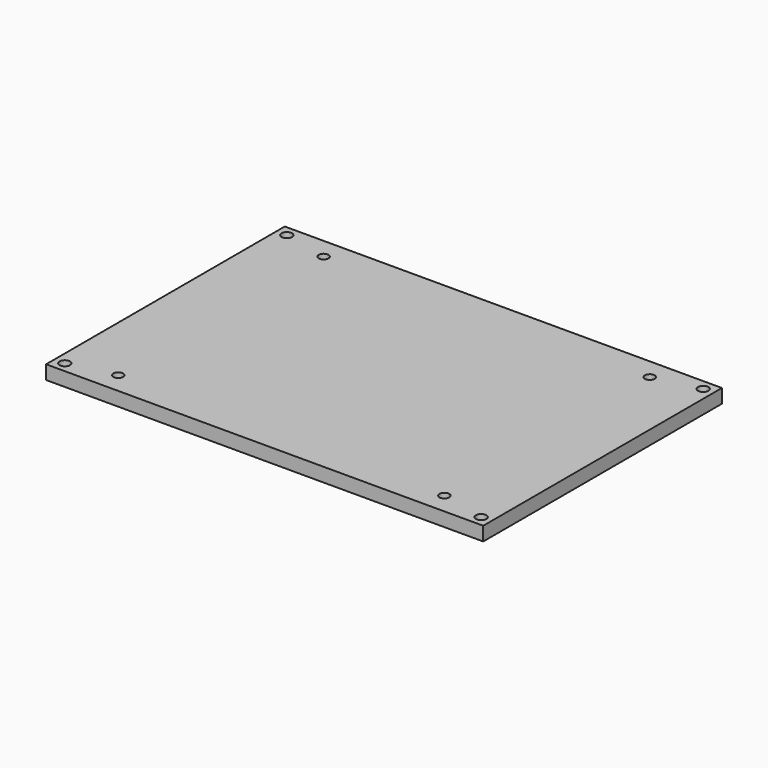
from build123d import *

# Parameters (mm, degrees)
F0_W     = 126
F0_H     = 86
F0_R     = 1.5
F0_R_2   = 1.4
F1_DEPTH = 4


with BuildPart() as f1:
    # F0 (on Top) → F1 (new body)
    with BuildSketch(Plane.XY):
        Rectangle(F0_W, F0_H)
        with Locations((-60, -40)):
            Circle(F0_R, mode=Mode.SUBTRACT)
        with Locations((-47, -37)):
            Circle(F0_R_2, mode=Mode.SUBTRACT)
        with Locations((47, -37)):
            Circle(F0_R_2, mode=Mode.SUBTRACT)
        with Locations((60, -40)):
            Circle(F0_R, mode=Mode.SUBTRACT)
        with Locations((-60, 40)):
            Circle(F0_R, mode=Mode.SUBTRACT)
        with Locations((-47, 37)):
            Circle(F0_R_2, mode=Mode.SUBTRACT)
        with Locations((47, 37)):
            Circle(F0_R_2, mode=Mode.SUBTRACT)
        with Locations((60, 40)):
            Circle(F0_R, mode=Mode.SUBTRACT)
    extrude(amount=F1_DEPTH)


solid = f1.part
